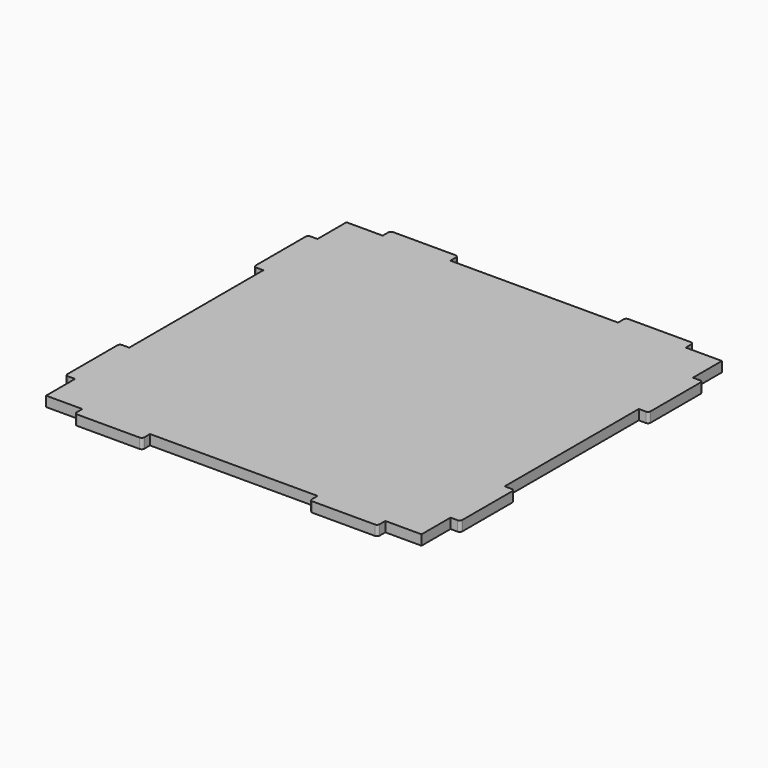
from build123d import *

# Parameters (mm, degrees)
F1_DEPTH = 3
F2_R     = 0.8


with BuildPart() as f1:
    # F0 (on Top) → F1 (new body)
    with BuildSketch(Plane.XY):
        Polygon((-45.2, 58.9), (-45.2, 56), (-56, 56), (-56, 45.2), (-58.9, 45.2), (-58.9, 25), (-56, 25), (-56, -25), (-58.9, -25), (-58.9, -45.2), (-56, -45.2), (-56, -56), (-45.2, -56), (-45.2, -58.9), (-25, -58.9), (-25, -56), (25, -56), (25, -58.9), (45.2, -58.9), (45.2, -56), (56, -56), (56, -45.2), (58.9, -45.2), (58.9, -25), (56, -25), (56, 25), (58.9, 25), (58.9, 45.2), (56, 45.2), (56, 56), (45.2, 56), (45.2, 58.9), (25, 58.9), (25, 56), (-25, 56), (-25, 58.9), align=None)
    extrude(amount=F1_DEPTH)

    # F2
    f2_edges = [f1.edges().sort_by_distance(p)[0] for p in [
        (-45.2, -58.9, 1.5),
        (-25, -58.9, 1.5),
        (-58.9, -45.2, 1.5),
        (-58.9, 25, 1.5),
        (25, -58.9, 1.5),
        (45.2, -58.9, 1.5),
        (58.9, -45.2, 1.5),
        (58.9, 25, 1.5),
        (58.9, -25, 1.5),
        (58.9, 45.2, 1.5),
        (45.2, 58.9, 1.5),
        (-25, 58.9, 1.5),
        (25, 58.9, 1.5),
        (-45.2, 58.9, 1.5),
        (-58.9, 45.2, 1.5),
        (-58.9, -25, 1.5),
    ]]
    fillet(f2_edges, radius=F2_R)


solid = f1.part
